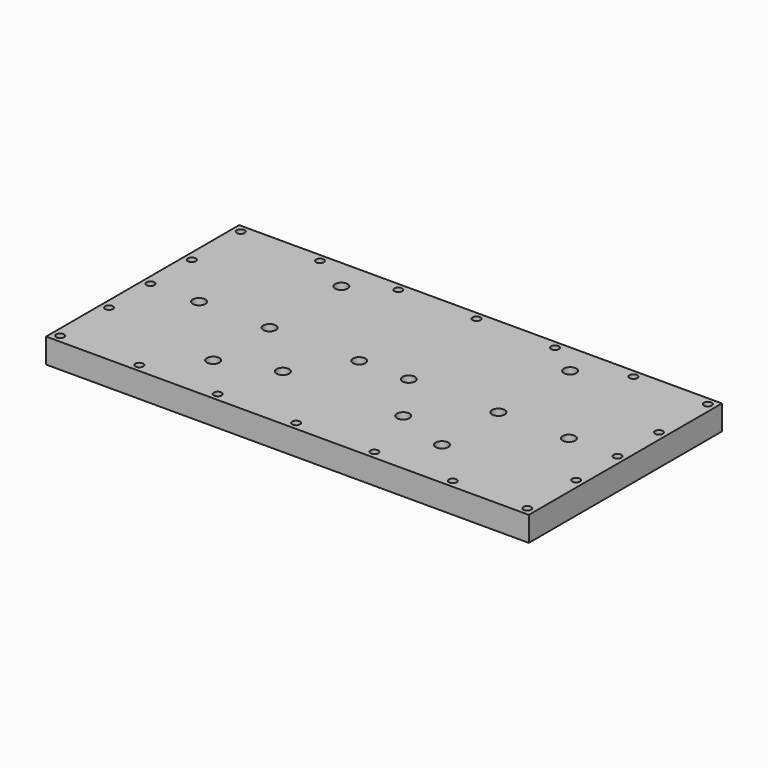
from build123d import *

# Parameters (mm, degrees)
F0_W      = 154
F0_H      = 77
F1_DEPTH  = 7.873
F2_W      = 140
F2_H      = 67
F3_DEPTH  = 4.873
F4_R      = 1.25
F5_DEPTH  = 7.873
F6_R      = 1.25
F7_DEPTH  = 7.873
F8_R      = 1.25
F9_DEPTH  = 7.873
F10_R     = 1.25
F11_DEPTH = 7.873
F12_R     = 1.25
F13_DEPTH = 7.873
F14_R     = 1.25
F15_DEPTH = 7.873
F16_R     = 1.25
F17_DEPTH = 7.873
F18_R     = 1.25
F19_DEPTH = 7.873
F20_R     = 1.25
F21_DEPTH = 7.873
F22_R     = 1.25
F23_DEPTH = 7.873
F24_R     = 1.25
F25_DEPTH = 7.873
F26_R     = 1.25
F27_DEPTH = 7.873
F28_R     = 1.25
F29_DEPTH = 7.873
F30_R     = 1.25
F31_DEPTH = 7.873
F32_R     = 1.25
F33_DEPTH = 7.873
F34_R     = 1.25
F35_DEPTH = 7.873
F36_R     = 1.25
F37_DEPTH = 7.873
F38_R     = 1.25
F39_DEPTH = 7.873
F40_R     = 1.25
F41_DEPTH = 7.873
F42_R     = 1.25
F43_DEPTH = 7.873
F44_R     = 2
F45_DEPTH = 3
F46_R     = 2
F47_DEPTH = 3
F48_R     = 2
F49_DEPTH = 3
F50_R     = 2
F51_DEPTH = 3
F52_R     = 2
F53_DEPTH = 3
F54_R     = 2
F55_DEPTH = 3
F56_R     = 2
F57_DEPTH = 3
F58_R     = 2
F59_DEPTH = 3
F61_R     = 2
F62_DEPTH = 3
F64_R     = 2
F65_DEPTH = 3
F66_R     = 2
F67_DEPTH = 3
F63_R     = 2
F68_DEPTH = 3
F69_W     = 2.5
F69_H     = 67
F70_DEPTH = 4.873
F60_W     = 2.5
F60_H     = 6.7
F71_DEPTH = 0.723


with BuildPart() as f1:
    # F0 (on Top) → F1 (new body)
    with BuildSketch(Plane.XY):
        with Locations((77, 38.5)):
            Rectangle(F0_W, F0_H)
    extrude(amount=F1_DEPTH)

    # F2 (on Top) → F3 (cut)
    with BuildSketch(Plane.XY):
        with Locations((77, 38.5)):
            Rectangle(F2_W, F2_H)
    extrude(amount=F3_DEPTH, mode=Mode.SUBTRACT)

    # F4 (on face) → F5 (cut)
    with BuildSketch(Plane.XY.offset(7.873)):
        with Locations((2.5, 2.5)):
            Circle(F4_R)
    extrude(amount=-F5_DEPTH, mode=Mode.SUBTRACT)

    # F6 (on face) → F7 (cut)
    with BuildSketch(Plane.XY.offset(7.873)):
        with Locations((27.75, 2.5)):
            Circle(F6_R)
    extrude(amount=-F7_DEPTH, mode=Mode.SUBTRACT)

    # F8 (on face) → F9 (cut)
    with BuildSketch(Plane.XY.offset(7.873)):
        with Locations((52.75, 2.5)):
            Circle(F8_R)
    extrude(amount=-F9_DEPTH, mode=Mode.SUBTRACT)

    # F10 (on face) → F11 (cut)
    with BuildSketch(Plane.XY.offset(7.873)):
        with Locations((77.75, 2.5)):
            Circle(F10_R)
    extrude(amount=-F11_DEPTH, mode=Mode.SUBTRACT)

    # F12 (on face) → F13 (cut)
    with BuildSketch(Plane.XY.offset(7.873)):
        with Locations((102.75, 2.5)):
            Circle(F12_R)
    extrude(amount=-F13_DEPTH, mode=Mode.SUBTRACT)

    # F14 (on face) → F15 (cut)
    with BuildSketch(Plane.XY.offset(7.873)):
        with Locations((127.75, 2.5)):
            Circle(F14_R)
    extrude(amount=-F15_DEPTH, mode=Mode.SUBTRACT)

    # F16 (on face) → F17 (cut)
    with BuildSketch(Plane.XY.offset(7.873)):
        with Locations((151.5, 2.5)):
            Circle(F16_R)
    extrude(amount=-F17_DEPTH, mode=Mode.SUBTRACT)

    # F18 (on face) → F19 (cut)
    with BuildSketch(Plane.XY.offset(7.873)):
        with Locations((2.5, 22)):
            Circle(F18_R)
    extrude(amount=-F19_DEPTH, mode=Mode.SUBTRACT)

    # F20 (on face) → F21 (cut)
    with BuildSketch(Plane.XY.offset(7.873)):
        with Locations((151.5, 22)):
            Circle(F20_R)
    extrude(amount=-F21_DEPTH, mode=Mode.SUBTRACT)

    # F22 (on face) → F23 (cut)
    with BuildSketch(Plane.XY.offset(7.873)):
        with Locations((151.5, 38.5)):
            Circle(F22_R)
    extrude(amount=-F23_DEPTH, mode=Mode.SUBTRACT)

    # F24 (on face) → F25 (cut)
    with BuildSketch(Plane.XY.offset(7.873)):
        with Locations((2.5, 38.5)):
            Circle(F24_R)
    extrude(amount=-F25_DEPTH, mode=Mode.SUBTRACT)

    # F26 (on face) → F27 (cut)
    with BuildSketch(Plane.XY.offset(7.873)):
        with Locations((2.5, 55)):
            Circle(F26_R)
    extrude(amount=-F27_DEPTH, mode=Mode.SUBTRACT)

    # F28 (on face) → F29 (cut)
    with BuildSketch(Plane.XY.offset(7.873)):
        with Locations((151.5, 55)):
            Circle(F28_R)
    extrude(amount=-F29_DEPTH, mode=Mode.SUBTRACT)

    # F30 (on face) → F31 (cut)
    with BuildSketch(Plane.XY.offset(7.873)):
        with Locations((2.5, 74.5)):
            Circle(F30_R)
    extrude(amount=-F31_DEPTH, mode=Mode.SUBTRACT)

    # F32 (on face) → F33 (cut)
    with BuildSketch(Plane.XY.offset(7.873)):
        with Locations((151.5, 74.5)):
            Circle(F32_R)
    extrude(amount=-F33_DEPTH, mode=Mode.SUBTRACT)

    # F34 (on face) → F35 (cut)
    with BuildSketch(Plane.XY.offset(7.873)):
        with Locations((27.75, 74.5)):
            Circle(F34_R)
    extrude(amount=-F35_DEPTH, mode=Mode.SUBTRACT)

    # F36 (on face) → F37 (cut)
    with BuildSketch(Plane.XY.offset(7.873)):
        with Locations((127.75, 74.5)):
            Circle(F36_R)
    extrude(amount=-F37_DEPTH, mode=Mode.SUBTRACT)

    # F38 (on face) → F39 (cut)
    with BuildSketch(Plane.XY.offset(7.873)):
        with Locations((102.75, 74.5)):
            Circle(F38_R)
    extrude(amount=-F39_DEPTH, mode=Mode.SUBTRACT)

    # F40 (on face) → F41 (cut)
    with BuildSketch(Plane.XY.offset(7.873)):
        with Locations((52.75, 74.5)):
            Circle(F40_R)
    extrude(amount=-F41_DEPTH, mode=Mode.SUBTRACT)

    # F42 (on face) → F43 (cut)
    with BuildSketch(Plane.XY.offset(7.873)):
        with Locations((77.75, 74.5)):
            Circle(F42_R)
    extrude(amount=-F43_DEPTH, mode=Mode.SUBTRACT)

    # F44 (on face) → F45 (cut)
    with BuildSketch(Plane.XY.offset(7.873)):
        with Locations((40.5, 67.1)):
            Circle(F44_R)
    extrude(amount=-F45_DEPTH, mode=Mode.SUBTRACT)

    # F46 (on face) → F47 (cut)
    with BuildSketch(Plane.XY.offset(7.873)):
        with Locations((18, 38.5)):
            Circle(F46_R)
    extrude(amount=-F47_DEPTH, mode=Mode.SUBTRACT)

    # F48 (on face) → F49 (cut)
    with BuildSketch(Plane.XY.offset(7.873)):
        with Locations((69.1, 38.5)):
            Circle(F48_R)
    extrude(amount=-F49_DEPTH, mode=Mode.SUBTRACT)

    # F50 (on face) → F51 (cut)
    with BuildSketch(Plane.XY.offset(7.873)):
        with Locations((113.5, 67.1)):
            Circle(F50_R)
    extrude(amount=-F51_DEPTH, mode=Mode.SUBTRACT)

    # F52 (on face) → F53 (cut)
    with BuildSketch(Plane.XY.offset(7.873)):
        with Locations((84.9, 38.5)):
            Circle(F52_R)
    extrude(amount=-F53_DEPTH, mode=Mode.SUBTRACT)

    # F54 (on face) → F55 (cut)
    with BuildSketch(Plane.XY.offset(7.873)):
        with Locations((136, 38.5)):
            Circle(F54_R)
    extrude(amount=-F55_DEPTH, mode=Mode.SUBTRACT)

    # F56 (on face) → F57 (cut)
    with BuildSketch(Plane.XY.offset(7.873)):
        with Locations((57.8, 22.17)):
            Circle(F56_R)
    extrude(amount=-F57_DEPTH, mode=Mode.SUBTRACT)

    # F58 (on face) → F59 (cut)
    with BuildSketch(Plane.XY.offset(7.873)):
        with Locations((96.2, 22.17)):
            Circle(F58_R)
    extrude(amount=-F59_DEPTH, mode=Mode.SUBTRACT)

    # F61 (on face) → F62 (cut)
    with BuildSketch(Plane(origin=(0, 0, 4.873), x_dir=(1, 0, 0), z_dir=(0, 0, -1))):
        with Locations((40.5, -16)):
            Circle(F61_R)
    extrude(amount=-F62_DEPTH, mode=Mode.SUBTRACT)

    # F64 (on face) → F65 (cut)
    with BuildSketch(Plane(origin=(0, 0, 4.873), x_dir=(1, 0, 0), z_dir=(0, 0, -1))):
        with Locations((113.5, -38.5)):
            Circle(F64_R)
    extrude(amount=-F65_DEPTH, mode=Mode.SUBTRACT)

    # F66 (on face) → F67 (cut)
    with BuildSketch(Plane(origin=(0, 0, 4.873), x_dir=(1, 0, 0), z_dir=(0, 0, -1))):
        with Locations((113.5, -16)):
            Circle(F66_R)
    extrude(amount=-F67_DEPTH, mode=Mode.SUBTRACT)

    # F63 (on face) → F68 (cut)
    with BuildSketch(Plane(origin=(0, 0, 4.873), x_dir=(1, 0, 0), z_dir=(0, 0, -1))):
        with Locations((40.5, -38.5)):
            Circle(F63_R)
    extrude(amount=-F68_DEPTH, mode=Mode.SUBTRACT)

    # F69 (on face) → F70 (join)
    with BuildSketch(Plane(origin=(0, 0, 0), x_dir=(1, 0, 0), z_dir=(0, 0, -1))):
        with Locations((77, -38.5)):
            Rectangle(F69_W, F69_H)
    extrude(amount=-F70_DEPTH)

    # F60 (on face) → F71 (cut)
    with BuildSketch(Plane(origin=(0, 0, 0), x_dir=(1, 0, 0), z_dir=(0, 0, -1))):
        with Locations((77, -38.5)):
            Rectangle(F60_W, F60_H)
    extrude(amount=-F71_DEPTH, mode=Mode.SUBTRACT)


solid = f1.part
